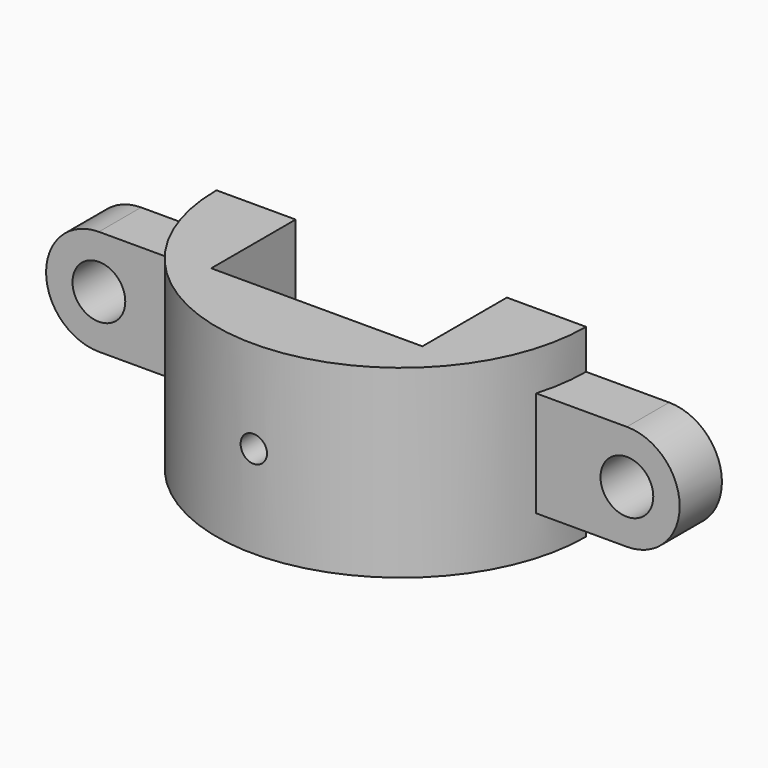
from build123d import *

# Parameters (mm, degrees)
F0_R     = 6.35
F1_DEPTH = 12.7
F3_DEPTH = 22.225
F4_W     = 50.8
F4_H     = 25.4
F5_DEPTH = 44.45
F6_R     = 3.175
F7_DEPTH = 25.4


with BuildPart() as f1:
    # F0 (on Front) → F1 (new body)
    with BuildSketch(Plane.XZ):
        with BuildLine():
            Line((64.422844, 12.7), (-62.577156, 12.7))
            ThreePointArc((-62.577156, 12.7), (-75.277156, 0), (-62.577156, -12.7))
            Line((-62.577156, -12.7), (64.422844, -12.7))
            ThreePointArc((64.422844, -12.7), (77.122844, 0), (64.422844, 12.7))
        make_face()
        with Locations((-62.577156, 0)):
            Circle(F0_R, mode=Mode.SUBTRACT)
        with Locations((64.422844, 0)):
            Circle(F0_R, mode=Mode.SUBTRACT)
    extrude(amount=F1_DEPTH)

    # F2 (on Top) → F3 (join, symmetric)
    with BuildSketch(Plane.XY):
        with BuildLine():
            Line((44.45, 0), (-44.45, 0))
            ThreePointArc((-44.45, 0), (0, -44.45), (44.45, 0))
        make_face()
    extrude(amount=F3_DEPTH, both=True)

    # F4 (on face) → F5 (cut)
    with BuildSketch(Plane(origin=(0, 0, -22.225), x_dir=(1, 0, 0), z_dir=(0, 0, -1))):
        with Locations((0, 12.7)):
            Rectangle(F4_W, F4_H)
        with Locations((0, 12.7)):
            Rectangle(F4_W, F4_H)
    extrude(amount=-F5_DEPTH, mode=Mode.SUBTRACT)

    # F6 (on face) → F7 (cut)
    with BuildSketch(Plane(origin=(0, -25.4, 0), x_dir=(-1, 0, 0), z_dir=(0, 1, 0))):
        Circle(F6_R)
    extrude(amount=-F7_DEPTH, mode=Mode.SUBTRACT)


solid = f1.part
